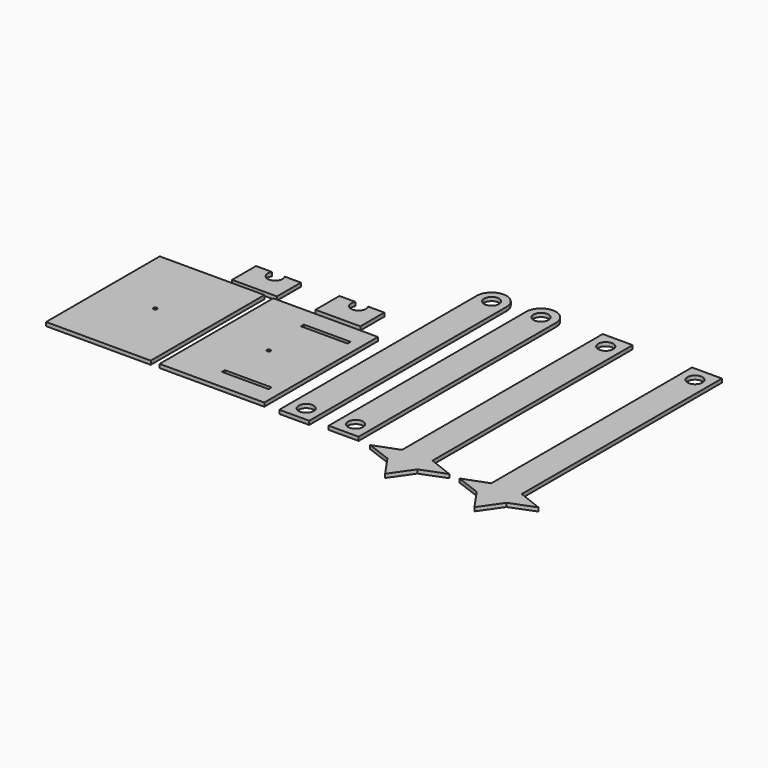
from build123d import *

# Parameters (mm, degrees)
F0_R     = 6.35
F0_R_2   = 25.4
F1_DEPTH = 12.7


with BuildPart() as f1:
    # F0 (on Top) → F1 (new body)
    with BuildSketch(Plane.XY):
        Polygon((-216.914385, -397.771617), (-216.914385, 84.828383), (-572.514385, 84.828383), (-572.514385, -397.771617), (-335.331422, -397.771617), align=None)
        Polygon((-259.131422, -330.536369), (-335.331422, -330.536369), (-411.531422, -330.536369), (-414.706422, -330.536369), (-414.706422, -317.836369), (-411.531422, -317.836369), (-259.131422, -317.836369), (-255.956422, -317.836369), (-255.956422, -330.536369), align=None, mode=Mode.SUBTRACT)
        with Locations((-394.714385, -156.471617)):
            Circle(F0_R, mode=Mode.SUBTRACT)
        Polygon((-414.706422, 17.593135), (-411.531422, 17.593135), (-335.331422, 17.593135), (-259.131422, 17.593135), (-255.956422, 17.593135), (-255.956422, 4.893135), (-259.131422, 4.893135), (-411.531422, 4.893135), (-414.706422, 4.893135), align=None, mode=Mode.SUBTRACT)
        with BuildLine():
            Line((-723.912387, 200.98768), (-723.912387, 99.38768))
            Line((-723.912387, 99.38768), (-571.512387, 99.38768))
            Line((-571.512387, 99.38768), (-571.512387, 200.98768))
            Line((-571.512387, 200.98768), (-626.583388, 200.98768))
            ThreePointArc((-626.583388, 200.98768), (-647.712387, 161.534897), (-668.841386, 200.98768))
            Line((-668.841386, 200.98768), (-723.912387, 200.98768))
        make_face()
        with BuildLine():
            Line((-443.736463, 204.878999), (-443.736463, 103.278999))
            Line((-443.736463, 103.278999), (-291.336463, 103.278999))
            Line((-291.336463, 103.278999), (-291.336463, 204.878999))
            Line((-291.336463, 204.878999), (-346.407464, 204.878999))
            ThreePointArc((-346.407464, 204.878999), (-367.536463, 165.426216), (-388.665462, 204.878999))
            Line((-388.665462, 204.878999), (-443.736463, 204.878999))
        make_face()
        Polygon((-602.508526, -397.861197), (-602.508526, 84.738803), (-720.925562, 84.738803), (-958.108526, 84.738803), (-958.108526, -397.861197), align=None)
        with Locations((-780.308526, -156.561197)):
            Circle(F0_R, mode=Mode.SUBTRACT)
        with BuildLine():
            Line((-0.342996, 443.344366), (-0.342996, -394.855634))
            Line((-0.342996, -394.855634), (101.257004, -394.855634))
            Line((101.257004, -394.855634), (101.257004, 443.344366))
            ThreePointArc((101.257004, 443.344366), (50.457004, 494.144366), (-0.342996, 443.344366))
        make_face()
        with Locations((50.457004, -344.055634)):
            Circle(F0_R_2, mode=Mode.SUBTRACT)
        with Locations((50.457004, 443.344366)):
            Circle(F0_R_2, mode=Mode.SUBTRACT)
        Polygon((339.970337, 470.373241), (238.370337, 470.373241), (238.370337, -381.830732), (238.370337, -444.026759), (339.970337, -444.026759), (339.970337, -379.670487), align=None)
        with Locations((289.170337, 419.573241)):
            Circle(F0_R_2, mode=Mode.SUBTRACT)
        Polygon((238.370337, -444.026759), (238.370337, -381.830732), (155.086944, -412.928746), align=None)
        Polygon((422.842392, -411.848623), (339.970337, -379.670487), (339.970337, -444.026759), align=None)
        Polygon((339.970337, -444.026759), (238.370337, -444.026759), (289.170337, -516.982705), align=None)
        with BuildLine():
            Line((-160.019979, 433.12293), (-160.019979, -405.07707))
            Line((-160.019979, -405.07707), (-58.419979, -405.07707))
            Line((-58.419979, -405.07707), (-58.419979, 433.12293))
            ThreePointArc((-58.419979, 433.12293), (-109.219979, 483.92293), (-160.019979, 433.12293))
        make_face()
        with Locations((-109.219979, -354.27707)):
            Circle(F0_R_2, mode=Mode.SUBTRACT)
        with Locations((-109.219979, 433.12293)):
            Circle(F0_R_2, mode=Mode.SUBTRACT)
        Polygon((644.869068, 468.467859), (543.269068, 468.467859), (543.269068, -383.736114), (543.269068, -445.932141), (644.869068, -445.932141), (644.869068, -381.575869), align=None)
        with Locations((594.069068, 417.667859)):
            Circle(F0_R_2, mode=Mode.SUBTRACT)
        Polygon((543.269068, -445.932141), (543.269068, -383.736114), (459.985675, -414.834128), align=None)
        Polygon((727.741123, -413.754005), (644.869068, -381.575869), (644.869068, -445.932141), align=None)
        Polygon((644.869068, -445.932141), (543.269068, -445.932141), (594.069068, -518.888087), align=None)
    extrude(amount=F1_DEPTH)


solid = f1.part
